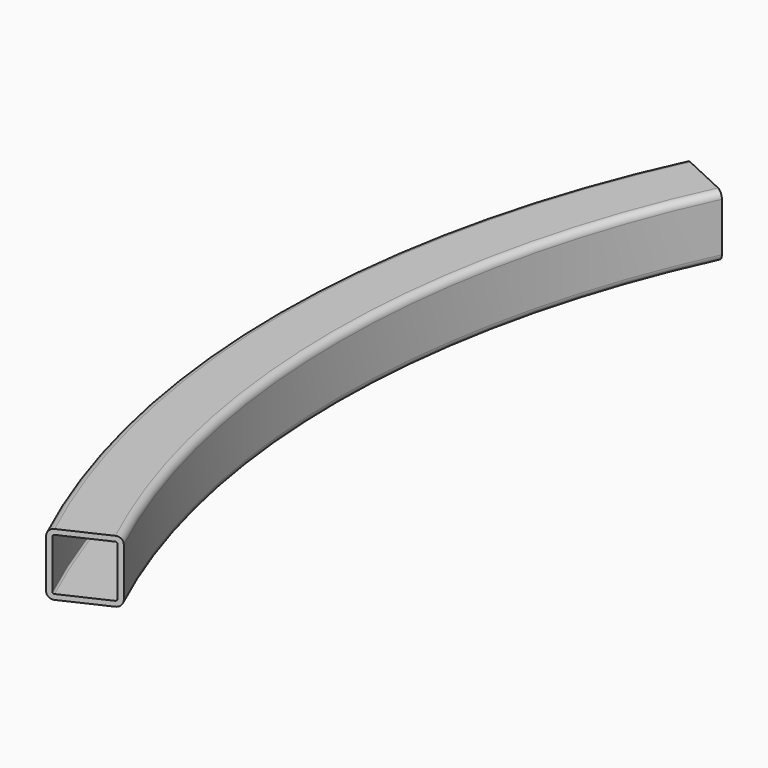
from build123d import *

# Parameters (mm, degrees)
F1_ANGLE = 50


with BuildPart() as f1:
    # F0 (on Front) → F1 (revolve, symmetric)
    with BuildSketch(Plane.XZ) as f1_sk:
        with BuildLine():
            Line((-7.4422, -9.525), (7.4422, -9.525))
            ThreePointArc((7.4422, -9.525), (8.914962, -8.914962), (9.525, -7.4422))
            Line((9.525, -7.4422), (9.525, 7.4422))
            ThreePointArc((9.525, 7.4422), (8.914962, 8.914962), (7.4422, 9.525))
            Line((7.4422, 9.525), (-7.4422, 9.525))
            ThreePointArc((-7.4422, 9.525), (-8.914962, 8.914962), (-9.525, 7.4422))
            Line((-9.525, 7.4422), (-9.525, -7.4422))
            ThreePointArc((-9.525, -7.4422), (-8.914962, -8.914962), (-7.4422, -9.525))
        make_face()
        with BuildLine():
            ThreePointArc((7.9502, -7.4422), (7.80141, -7.80141), (7.4422, -7.9502))
            Line((7.4422, -7.9502), (-7.4422, -7.9502))
            ThreePointArc((-7.4422, -7.9502), (-7.80141, -7.80141), (-7.9502, -7.4422))
            Line((-7.9502, -7.4422), (-7.9502, 7.4422))
            ThreePointArc((-7.9502, 7.4422), (-7.80141, 7.80141), (-7.4422, 7.9502))
            Line((-7.4422, 7.9502), (7.4422, 7.9502))
            ThreePointArc((7.4422, 7.9502), (7.80141, 7.80141), (7.9502, 7.4422))
            Line((7.9502, 7.4422), (7.9502, -7.4422))
        make_face(mode=Mode.SUBTRACT)
    revolve(axis=Axis((279.4, 0, -3.901474), (0, 0, -1)), revolution_arc=F1_ANGLE / 2)
    revolve(f1_sk.sketch, axis=Axis((279.4, 0, -3.901474), (0, 0, 1)), revolution_arc=F1_ANGLE / 2)


solid = f1.part
